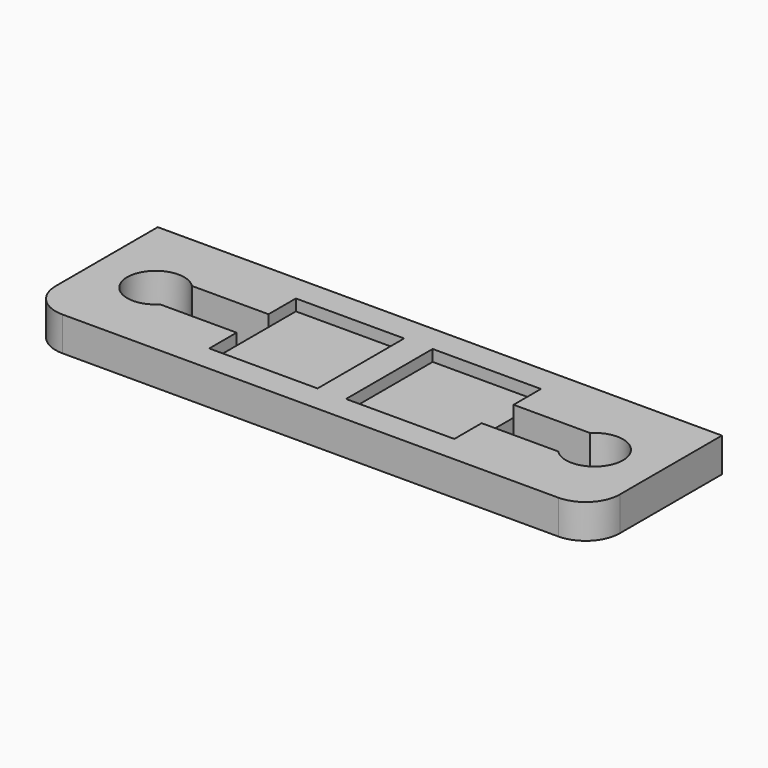
from build123d import *

# Parameters (mm, degrees)
SKETCH_R        = 2.5
PAD_DEPTH       = 4.5
SKETCH001_W     = 9.5
SKETCH001_H     = 9.5
POCKET_DEPTH    = 1
SKETCH002_W     = 2
SKETCH002_H     = 3.5
POCKET001_DEPTH = 5
SKETCH003_W     = 7
SKETCH003_H     = 3.5
POCKET002_DEPTH = 5
SKETCH004_W     = 52
SKETCH004_H     = 16
SKETCH004_W_2   = 31.5
SKETCH004_H_2   = 8.75
POCKET003_DEPTH = 1.5


with BuildPart() as part:
    # Sketch → Pad (new body)
    with BuildSketch(Plane.XY):
        with BuildLine():
            Line((-24.75, 7.1), (24.75, 7.1))
            Line((24.75, 7.1), (24.75, -4.1))
            ThreePointArc((21.75, -7.1), (23.87132, -6.22132), (24.75, -4.1))
            Line((21.75, -7.1), (-21.75, -7.1))
            ThreePointArc((-24.75, -4.1), (-23.87132, -6.22132), (-21.75, -7.1))
            Line((-24.75, -4.1), (-24.75, 7.1))
        make_face()
        with Locations((-19.25, 0)):
            Circle(SKETCH_R, mode=Mode.SUBTRACT)
        with Locations((19.25, 0)):
            Circle(SKETCH_R, mode=Mode.SUBTRACT)
    extrude(amount=PAD_DEPTH)

    # Sketch001 (on DatumPlane) → Pocket (cut)
    with BuildSketch(Plane.XY.offset(4.5)):
        with Locations((-6, 0)):
            Rectangle(SKETCH001_W, SKETCH001_H)
        with Locations((6, 0)):
            Rectangle(SKETCH001_W, SKETCH001_H)
    extrude(amount=-POCKET_DEPTH, mode=Mode.SUBTRACT)

    # Sketch002 (on DatumPlane) → Pocket001 (cut)
    with BuildSketch(Plane.XY.offset(4.5)):
        with Locations((-11.75, 0)):
            Rectangle(SKETCH002_W, SKETCH002_H)
        with Locations((11.75, 0)):
            Rectangle(SKETCH002_W, SKETCH002_H)
        with Locations((-16.75, 0)):
            Rectangle(SKETCH002_W, SKETCH002_H)
        with Locations((16.75, 0)):
            Rectangle(SKETCH002_W, SKETCH002_H)
    extrude(amount=-POCKET001_DEPTH, mode=Mode.SUBTRACT)

    # Sketch003 (on DatumPlane) → Pocket002 (cut)
    with BuildSketch(Plane.XY.offset(4.5)):
        with Locations((-14.25, 0)):
            Rectangle(SKETCH003_W, SKETCH003_H)
        with Locations((14.25, 0)):
            Rectangle(SKETCH003_W, SKETCH003_H)
    extrude(amount=-POCKET002_DEPTH, mode=Mode.SUBTRACT)

    # Sketch004 (on DatumPlane) → Pocket003 (cut)
    with BuildSketch(Plane(origin=(0, 0, 0), x_dir=(1, 0, 0), z_dir=(0, 0, -1))):
        Rectangle(SKETCH004_W, SKETCH004_H)
        Rectangle(SKETCH004_W_2, SKETCH004_H_2, mode=Mode.SUBTRACT)
    extrude(amount=-POCKET003_DEPTH, mode=Mode.SUBTRACT)


solid = part.part
